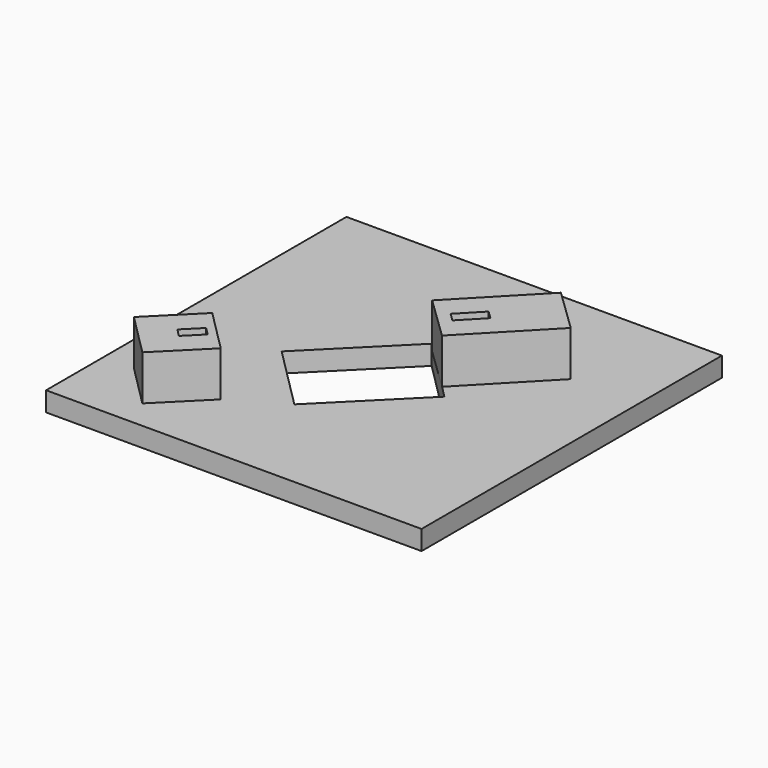
from build123d import *

# Parameters (mm, degrees)
SKETCH006_AS_DRAWN_W                      = 1.464365
SKETCH006_AS_DRAWN_H                      = 3.015419
EXTRUDE003_DEPTH                          = 4.5
EXTRUDE003_DEPTH_BACK                     = 2
EXTRUDE003_ONTO_SKETCH006_PLACEMENT_ANGLE = 135
BOX003_W                                  = 8
BOX003_H                                  = 8.2
BOX003_DEPTH                              = 6
BOX003_PLACEMENT_ANGLE                    = 135
BOX005_W                                  = 15.7
BOX005_H                                  = 12
BOX005_DEPTH                              = 2.6
BOX005_PLACEMENT_ANGLE                    = 45
BOX_W                                     = 50
BOX_H                                     = 50
BOX_DEPTH                                 = 2.6
SKETCH005_AS_DRAWN_W                      = 1.499127
SKETCH005_AS_DRAWN_H                      = 3.983619
EXTRUDE002_DEPTH                          = 4.5
EXTRUDE002_DEPTH_BACK                     = 1
EXTRUDE002_ONTO_SKETCH005_PLACEMENT_ANGLE = 136
BOX004_W                                  = 8
BOX004_H                                  = 13.5
BOX004_DEPTH                              = 6
BOX004_PLACEMENT_ANGLE                    = 136


with BuildPart() as extrude003:
    # Sketch006 as drawn → Extrude003 (new, two sides)
    with BuildSketch(Plane.XY) as extrude003_sk:
        with Locations((3.985229, 2.511082)):
            Rectangle(SKETCH006_AS_DRAWN_W, SKETCH006_AS_DRAWN_H)
    extrude(amount=EXTRUDE003_DEPTH)
    extrude(extrude003_sk.sketch, amount=-EXTRUDE003_DEPTH_BACK)


with BuildPart() as extrude003_1:
    # Extrude003 onto Sketch006 placement: moved
    add(extrude003.part.moved(Location((15.55, 9.66, 14.79))).rotate(Axis((15.55, 9.66, 14.79), (0, 0, 1)), EXTRUDE003_ONTO_SKETCH006_PLACEMENT_ANGLE))


with BuildPart() as extrude003_2:
    # Extrude003 placement: moved
    add(extrude003_1.part.moved(Location((0, 0, -4.5))))


with BuildPart() as cut004:
    # Box003 → Box003 (new body)
    with BuildSketch(Plane.XY):
        with Locations((4, 4.1)):
            Rectangle(BOX003_W, BOX003_H)
    extrude(amount=BOX003_DEPTH)


with BuildPart() as cut004_1:
    # Box003 placement: moved
    add(cut004.part.moved(Location((15.55, 9.66, 8.79))).rotate(Axis((15.55, 9.66, 8.79), (0, 0, 1)), BOX003_PLACEMENT_ANGLE))

    # Cut004: cut Extrude003
    add(extrude003_2.part, mode=Mode.SUBTRACT)


with BuildPart() as cut004_2:
    # Cut004 placement: moved
    add(cut004_1.part.moved(Location((-0.08085, 0.07824, -6.2))))


with BuildPart() as cube005:
    # Box005 → Box005 (new body)
    with BuildSketch(Plane.XY):
        with Locations((7.85, 6)):
            Rectangle(BOX005_W, BOX005_H)
    extrude(amount=BOX005_DEPTH)


with BuildPart() as cube005_1:
    # Box005 placement: moved
    add(cube005.part.moved(Location((22.146447, 13.646447, 0))).rotate(Axis((22.146447, 13.646447, 0), (0, 0, 1)), BOX005_PLACEMENT_ANGLE))


with BuildPart() as cut:
    # Box → Box (new body)
    with BuildSketch(Plane.XY):
        with Locations((25, 25)):
            Rectangle(BOX_W, BOX_H)
    extrude(amount=BOX_DEPTH)

    # Cut: cut Cube005
    add(cube005_1.part, mode=Mode.SUBTRACT)


with BuildPart() as extrude002:
    # Sketch005 as drawn → Extrude002 (new, two sides)
    with BuildSketch(Plane.XY) as extrude002_sk:
        with Locations((4.002213, 9.994158)):
            Rectangle(SKETCH005_AS_DRAWN_W, SKETCH005_AS_DRAWN_H)
    extrude(amount=EXTRUDE002_DEPTH)
    extrude(extrude002_sk.sketch, amount=-EXTRUDE002_DEPTH_BACK)


with BuildPart() as extrude002_1:
    # Extrude002 onto Sketch005 placement: moved
    add(extrude002.part.moved(Location((47.02, 42.01, 14.32))).rotate(Axis((47.02, 42.01, 14.32), (0, 0, 1)), EXTRUDE002_ONTO_SKETCH005_PLACEMENT_ANGLE))


with BuildPart() as extrude002_2:
    # Extrude002 placement: moved
    add(extrude002_1.part.moved(Location((0, 0, -4.5))))


with BuildPart() as fusion:
    # Box004 → Box004 (new body)
    with BuildSketch(Plane.XY):
        with Locations((4, 6.75)):
            Rectangle(BOX004_W, BOX004_H)
    extrude(amount=BOX004_DEPTH)


with BuildPart() as fusion_1:
    # Box004 placement: moved
    add(fusion.part.moved(Location((47.02, 42.01, 8.32))).rotate(Axis((47.02, 42.01, 8.32), (0, 0, 1)), BOX004_PLACEMENT_ANGLE))

    # Cut003: cut Extrude002
    add(extrude002_2.part, mode=Mode.SUBTRACT)


with BuildPart() as fusion_2:
    # Cut003 placement: moved
    add(fusion_1.part.moved(Location((-5.96, -6, -5.7))))

    # Fusion: union Cut004, Cut
    add(cut004_2.part)
    add(cut.part)


solid = fusion_2.part
